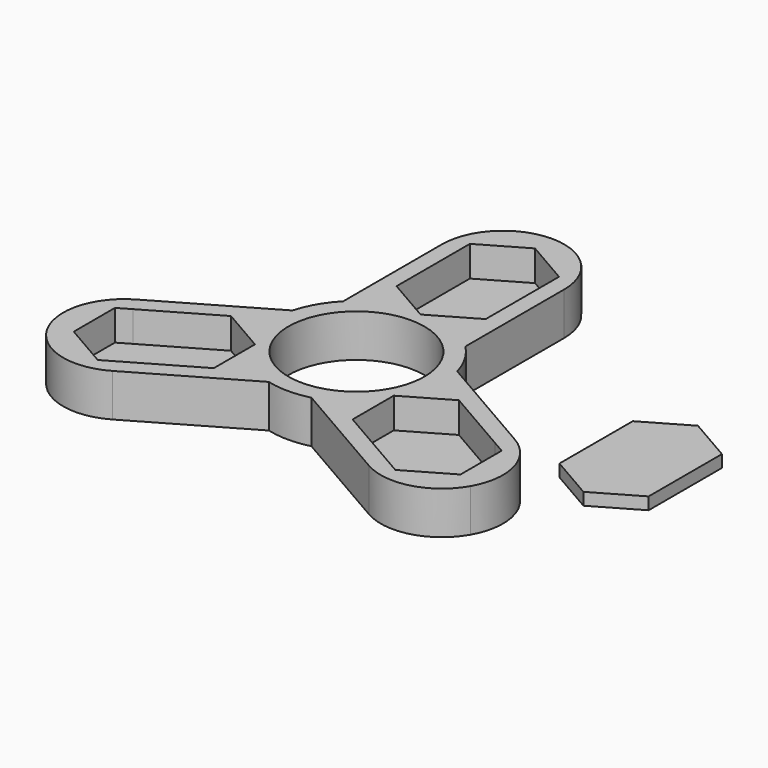
from build123d import *

# Parameters (mm, degrees)
F2_DEPTH = 7
F0_W     = 7.2926804423
F0_H     = 12.6761035989
F3_DEPTH = 2
F4_DEPTH = 2


with BuildPart() as f2:
    # F0 (on Top) → F2 (new body)
    with BuildSketch(Plane.XY):
        with BuildLine():
            Line((-47.3093725741, 63.991701901), (-44.6020530164, 63.991701901))
            ThreePointArc((-44.6020530164, 63.991701901), (-47.5309852046, 71.0627697128), (-54.6020530164, 73.991701901))
            Line((-54.6020530164, 73.991701901), (-54.6020530164, 70.5260293186))
            Line((-54.6020530164, 70.5260293186), (-47.3093725741, 66.3155983021))
            Line((-47.3093725741, 66.3155983021), (-47.3093725741, 63.991701901))
        make_face()
        with BuildLine():
            Line((-44.6020530164, 43.7896608721), (-44.6020530164, 63.991701901))
            Line((-44.6020530164, 63.991701901), (-47.3093725741, 63.991701901))
            Line((-47.3093725741, 63.991701901), (-47.3093725741, 51.3155983021))
            Line((-47.3093725741, 51.3155983021), (-54.6020530164, 47.1051672856))
            Line((-54.6020530164, 47.1051672856), (-54.6020530164, 45.116701901))
            ThreePointArc((-54.6020530164, 45.116701901), (-46.7354900757, 41.8582648417), (-43.4770530164, 33.991701901))
            ThreePointArc((-43.4770530164, 33.991701901), (-43.856128199, 31.1123400242), (-44.9675203993, 28.429201901))
            Line((-44.9675203993, 28.429201901), (-43.2454588617, 27.4349692086))
            Line((-43.2454588617, 27.4349692086), (-35.9527784194, 31.6454002251))
            Line((-35.9527784194, 31.6454002251), (-24.9749506817, 25.3073484257))
            Line((-24.9749506817, 25.3073484257), (-23.6212909029, 27.6519559388))
            Line((-23.6212909029, 27.6519559388), (-41.1167716422, 37.7529764532))
            ThreePointArc((-41.1167716422, 37.7529764532), (-42.4776973634, 40.991701901), (-44.6020530164, 43.7896608721))
        make_face()
        with BuildLine():
            Line((-54.6020530164, 70.5260293186), (-54.6020530164, 73.991701901))
            ThreePointArc((-54.6020530164, 73.991701901), (-61.6731208283, 71.0627697128), (-64.6020530164, 63.991701901))
            Line((-64.6020530164, 63.991701901), (-61.8947334588, 63.991701901))
            Line((-61.8947334588, 63.991701901), (-61.8947334588, 66.3155983021))
            Line((-61.8947334588, 66.3155983021), (-54.6020530164, 70.5260293186))
        make_face()
        with BuildLine():
            Line((-61.8947334588, 63.991701901), (-64.6020530164, 63.991701901))
            Line((-64.6020530164, 63.991701901), (-64.6020530164, 43.7896608721))
            ThreePointArc((-64.6020530164, 43.7896608721), (-66.7264086694, 40.991701901), (-68.0873343907, 37.7529764532))
            Line((-68.0873343907, 37.7529764532), (-85.58281513, 27.6519559388))
            Line((-85.58281513, 27.6519559388), (-84.2291553511, 25.3073484257))
            Line((-84.2291553511, 25.3073484257), (-73.2513276135, 31.6454002251))
            Line((-73.2513276135, 31.6454002251), (-65.9586471712, 27.4349692086))
            Line((-65.9586471712, 27.4349692086), (-64.2365856335, 28.429201901))
            ThreePointArc((-64.2365856335, 28.429201901), (-64.2365856335, 39.554201901), (-54.6020530164, 45.116701901))
            Line((-54.6020530164, 45.116701901), (-54.6020530164, 47.1051672856))
            Line((-54.6020530164, 47.1051672856), (-61.8947334588, 51.3155983021))
            Line((-61.8947334588, 51.3155983021), (-61.8947334588, 63.991701901))
        make_face()
        with BuildLine():
            ThreePointArc((-19.961036865, 13.991701901), (-18.96203264, 21.579892352), (-23.6212909029, 27.6519559388))
            Line((-23.6212909029, 27.6519559388), (-24.9749506817, 25.3073484257))
            Line((-24.9749506817, 25.3073484257), (-22.9623973626, 24.1454002251))
            Line((-22.9623973626, 24.1454002251), (-22.9623973626, 15.7245381922))
            Line((-22.9623973626, 15.7245381922), (-19.961036865, 13.991701901))
        make_face()
        with BuildLine():
            ThreePointArc((-33.6212909029, 10.3314478631), (-26.0331004519, 9.3324436381), (-19.961036865, 13.991701901))
            Line((-19.961036865, 13.991701901), (-22.9623973626, 15.7245381922))
            Line((-22.9623973626, 15.7245381922), (-30.2550778049, 11.5141071757))
            Line((-30.2550778049, 11.5141071757), (-32.2676311241, 12.6760553762))
            Line((-32.2676311241, 12.6760553762), (-33.6212909029, 10.3314478631))
        make_face()
        with BuildLine():
            Line((-84.2291553511, 25.3073484257), (-85.58281513, 27.6519559388))
            ThreePointArc((-85.58281513, 27.6519559388), (-90.2420733928, 21.579892352), (-89.2430691678, 13.991701901))
            Line((-89.2430691678, 13.991701901), (-86.2417086703, 15.7245381922))
            Line((-86.2417086703, 15.7245381922), (-86.2417086703, 24.1454002251))
            Line((-86.2417086703, 24.1454002251), (-84.2291553511, 25.3073484257))
        make_face()
        with BuildLine():
            ThreePointArc((-44.9675203993, 28.429201901), (-54.6020530164, 22.866701901), (-64.2365856335, 28.429201901))
            Line((-64.2365856335, 28.429201901), (-65.9586471712, 27.4349692086))
            Line((-65.9586471712, 27.4349692086), (-65.9586471712, 19.0141071757))
            Line((-65.9586471712, 19.0141071757), (-76.9364749088, 12.6760553762))
            Line((-76.9364749088, 12.6760553762), (-75.58281513, 10.3314478631))
            Line((-75.58281513, 10.3314478631), (-58.0873343907, 20.4324683775))
            ThreePointArc((-58.0873343907, 20.4324683775), (-54.6020530164, 19.991701901), (-51.1167716422, 20.4324683775))
            Line((-51.1167716422, 20.4324683775), (-33.6212909029, 10.3314478631))
            Line((-33.6212909029, 10.3314478631), (-32.2676311241, 12.6760553762))
            Line((-32.2676311241, 12.6760553762), (-43.2454588617, 19.0141071757))
            Line((-43.2454588617, 19.0141071757), (-43.2454588617, 27.4349692086))
            Line((-43.2454588617, 27.4349692086), (-44.9675203993, 28.429201901))
        make_face()
        with BuildLine():
            Line((-86.2417086703, 15.7245381922), (-89.2430691678, 13.991701901))
            ThreePointArc((-89.2430691678, 13.991701901), (-83.171005581, 9.3324436381), (-75.58281513, 10.3314478631))
            Line((-75.58281513, 10.3314478631), (-76.9364749088, 12.6760553762))
            Line((-76.9364749088, 12.6760553762), (-78.9490282279, 11.5141071757))
            Line((-78.9490282279, 11.5141071757), (-86.2417086703, 15.7245381922))
        make_face()
    extrude(amount=F2_DEPTH)

    # F0 (on Top) → F3 (join)
    with BuildSketch(Plane.XY):
        Polygon((-54.6020530164, 63.991701901), (-54.6020530164, 70.5260293186), (-61.8947334588, 66.3155983021), (-61.8947334588, 63.991701901), align=None)
        Polygon((-54.6020530164, 63.991701901), (-47.3093725741, 63.991701901), (-47.3093725741, 66.3155983021), (-54.6020530164, 70.5260293186), align=None)
        with Locations((-50.9557127953, 57.6536501015)):
            Rectangle(F0_W, F0_H)
        with Locations((-58.2483932376, 57.6536501015)):
            Rectangle(F0_W, F0_H)
        Polygon((-54.6020530164, 47.1051672856), (-47.3093725741, 51.3155983021), (-54.6020530164, 51.3155983021), align=None)
        Polygon((-54.6020530164, 47.1051672856), (-54.6020530164, 51.3155983021), (-61.8947334588, 51.3155983021), align=None)
        Polygon((-73.2513276135, 31.6454002251), (-84.2291553511, 25.3073484257), (-80.58281513, 18.991701901), (-69.6049873923, 25.3297537004), align=None)
        Polygon((-69.6049873923, 25.3297537004), (-65.9586471712, 27.4349692086), (-73.2513276135, 31.6454002251), align=None)
        Polygon((-65.9586471712, 19.0141071757), (-65.9586471712, 27.4349692086), (-69.6049873923, 25.3297537004), align=None)
        Polygon((-69.6049873923, 25.3297537004), (-80.58281513, 18.991701901), (-76.9364749088, 12.6760553762), (-65.9586471712, 19.0141071757), align=None)
        Polygon((-76.9364749088, 12.6760553762), (-80.58281513, 18.991701901), (-86.2417086703, 15.7245381922), (-78.9490282279, 11.5141071757), align=None)
        Polygon((-80.58281513, 18.991701901), (-84.2291553511, 25.3073484257), (-86.2417086703, 24.1454002251), (-86.2417086703, 15.7245381922), align=None)
        Polygon((-32.2676311241, 12.6760553762), (-28.6212909029, 18.991701901), (-39.5991186405, 25.3297537004), (-43.2454588617, 19.0141071757), align=None)
        Polygon((-22.9623973626, 15.7245381922), (-28.6212909029, 18.991701901), (-32.2676311241, 12.6760553762), (-30.2550778049, 11.5141071757), align=None)
        Polygon((-22.9623973626, 24.1454002251), (-24.9749506817, 25.3073484257), (-28.6212909029, 18.991701901), (-22.9623973626, 15.7245381922), align=None)
        Polygon((-28.6212909029, 18.991701901), (-24.9749506817, 25.3073484257), (-35.9527784194, 31.6454002251), (-39.5991186405, 25.3297537004), align=None)
        Polygon((-39.5991186405, 25.3297537004), (-35.9527784194, 31.6454002251), (-43.2454588617, 27.4349692086), align=None)
        Polygon((-39.5991186405, 25.3297537004), (-43.2454588617, 27.4349692086), (-43.2454588617, 19.0141071757), align=None)
    extrude(amount=F3_DEPTH)


with BuildPart() as f4:
    # F1 (on face) → F4 (new body)
    with BuildSketch(Plane.XY):
        Polygon((-6.404850632, 33.5046689212), (-6.404850632, 48.5046689212), (-13.6975310743, 52.7150999377), (-20.9902115166, 48.5046689212), (-20.9902115166, 33.5046689212), (-13.6975310743, 29.2942379047), align=None)
    extrude(amount=F4_DEPTH)


solid = Compound([f2.part, f4.part])
